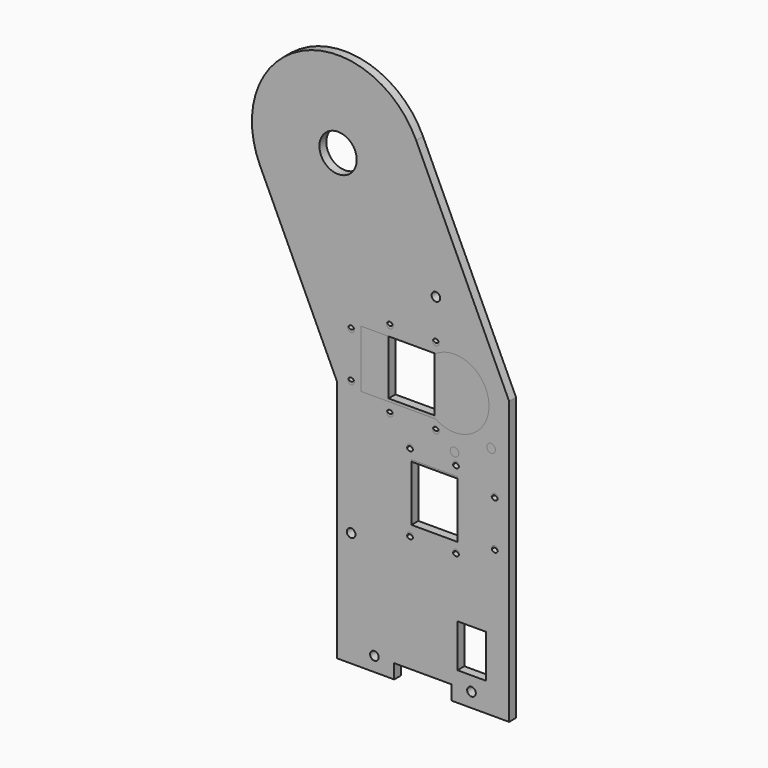
from build123d import *

# Parameters (mm, degrees)
F0_R     = 1.5
F0_R_2   = 1.1
F0_W     = 10
F0_H     = 15
F0_R_3   = 6.5
F0_W_2   = 16
F0_H_2   = 20
F2_DEPTH = 3
F1_R     = 1.5
F1_R_2   = 1.1
F1_W     = 10
F1_H     = 15
F1_W_2   = 16
F1_H_2   = 20
F1_R_3   = 6.5
F3_DEPTH = 3


with BuildPart() as f2:
    # F0 (on Front) → F2 (new body)
    with BuildSketch(Plane.XZ):
        with BuildLine():
            ThreePointArc((27.189234, 12.678548), (-12.678548, 27.189234), (-27.189234, -12.678548))
            Line((-27.189234, -12.678548), (-0.459801, -70))
            Line((-0.459801, -70), (-0.459801, -150))
            Line((-0.459801, -150), (-0.459801, -155))
            Line((-0.459801, -155), (19.540199, -155))
            Line((19.540199, -155), (19.540199, -150))
            Line((19.540199, -150), (39.540199, -150))
            Line((39.540199, -150), (39.540199, -155))
            Line((39.540199, -155), (59.540199, -155))
            Line((59.540199, -155), (59.540199, -150))
            Line((59.540199, -150), (59.540199, -56.69832))
            Line((59.540199, -56.69832), (27.189234, 12.678548))
        make_face()
        with Locations((12.640199, -150)):
            Circle(F0_R, mode=Mode.SUBTRACT)
        with Locations((4.540199, -115)):
            Circle(F0_R, mode=Mode.SUBTRACT)
        with Locations((5.812276, -109.009091)):
            Circle(F0_R, mode=Mode.SUBTRACT)
        with Locations((4.540199, -67.502)):
            Circle(F0_R_2, mode=Mode.SUBTRACT)
        with Locations((18.540199, -114.281169)):
            Circle(F0_R, mode=Mode.SUBTRACT)
        with Locations((25.040199, -109.781169)):
            Circle(F0_R_2, mode=Mode.SUBTRACT)
        with Locations((46.440199, -150)):
            Circle(F0_R, mode=Mode.SUBTRACT)
        with Locations((46.540199, -137.5)):
            Rectangle(F0_W, F0_H, mode=Mode.SUBTRACT)
        with Locations((41.040199, -109.781169)):
            Circle(F0_R_2, mode=Mode.SUBTRACT)
        with BuildLine():
            ThreePointArc((25.173448, -106.281169), (6.540199, -96.281169), (25.173448, -86.281169))
            Line((25.173448, -86.281169), (51.040199, -86.281169))
            Line((51.040199, -86.281169), (51.040199, -106.281169))
            Line((51.040199, -106.281169), (25.173448, -106.281169))
        make_face(mode=Mode.SUBTRACT)
        with Locations((25.040199, -82.781169)):
            Circle(F0_R_2, mode=Mode.SUBTRACT)
        with Locations((18.040199, -73.002)):
            Circle(F0_R_2, mode=Mode.SUBTRACT)
        with Locations((34.040199, -73.002)):
            Circle(F0_R_2, mode=Mode.SUBTRACT)
        with Locations((54.540199, -104.281169)):
            Circle(F0_R_2, mode=Mode.SUBTRACT)
        with Locations((54.540199, -88.281169)):
            Circle(F0_R_2, mode=Mode.SUBTRACT)
        with Locations((41.040199, -82.781169)):
            Circle(F0_R_2, mode=Mode.SUBTRACT)
        with Locations((4.540199, -51.502)):
            Circle(F0_R_2, mode=Mode.SUBTRACT)
        Circle(F0_R_3, mode=Mode.SUBTRACT)
        with Locations((25.540199, -59.502)):
            Rectangle(F0_W_2, F0_H_2, mode=Mode.SUBTRACT)
        with Locations((18.040199, -46.002)):
            Circle(F0_R_2, mode=Mode.SUBTRACT)
        with Locations((34.040199, -46.002)):
            Circle(F0_R_2, mode=Mode.SUBTRACT)
        with Locations((34.040199, -33)):
            Circle(F0_R, mode=Mode.SUBTRACT)
    extrude(amount=F2_DEPTH)


with BuildPart() as f3:
    # F1 (on Front) → F3 (new body)
    with BuildSketch(Plane.XZ):
        with BuildLine():
            ThreePointArc((27.189234, 12.678548), (-12.678548, 27.189234), (-27.189234, -12.678548))
            Line((-27.189234, -12.678548), (-0.459801, -70))
            Line((-0.459801, -70), (-0.459801, -150))
            Line((-0.459801, -150), (-0.459801, -155))
            Line((-0.459801, -155), (19.540199, -155))
            Line((19.540199, -155), (19.540199, -150))
            Line((19.540199, -150), (39.540199, -150))
            Line((39.540199, -150), (39.540199, -155))
            Line((39.540199, -155), (59.540199, -155))
            Line((59.540199, -155), (59.540199, -150))
            Line((59.540199, -150), (59.540199, -56.69832))
            Line((59.540199, -56.69832), (27.189234, 12.678548))
        make_face()
        with Locations((12.640199, -150)):
            Circle(F1_R, mode=Mode.SUBTRACT)
        with Locations((4.540199, -115)):
            Circle(F1_R, mode=Mode.SUBTRACT)
        with Locations((4.540199, -68.467614)):
            Circle(F1_R_2, mode=Mode.SUBTRACT)
        with Locations((25.040199, -109.17)):
            Circle(F1_R_2, mode=Mode.SUBTRACT)
        with Locations((46.440199, -150)):
            Circle(F1_R, mode=Mode.SUBTRACT)
        with Locations((46.540199, -137.5)):
            Rectangle(F1_W, F1_H, mode=Mode.SUBTRACT)
        with Locations((41.040199, -109.17)):
            Circle(F1_R_2, mode=Mode.SUBTRACT)
        with Locations((33.540199, -95.67)):
            Rectangle(F1_W_2, F1_H_2, mode=Mode.SUBTRACT)
        with Locations((25.040199, -82.17)):
            Circle(F1_R_2, mode=Mode.SUBTRACT)
        with Locations((18.040199, -73.967614)):
            Circle(F1_R_2, mode=Mode.SUBTRACT)
        with Locations((34.040199, -73.967614)):
            Circle(F1_R_2, mode=Mode.SUBTRACT)
        with Locations((54.540199, -103.67)):
            Circle(F1_R_2, mode=Mode.SUBTRACT)
        with Locations((54.540199, -87.67)):
            Circle(F1_R_2, mode=Mode.SUBTRACT)
        with Locations((41.040199, -82.17)):
            Circle(F1_R_2, mode=Mode.SUBTRACT)
        with Locations((40.540199, -78.467614)):
            Circle(F1_R, mode=Mode.SUBTRACT)
        with Locations((53.268121, -73.195536)):
            Circle(F1_R, mode=Mode.SUBTRACT)
        with Locations((4.540199, -52.467614)):
            Circle(F1_R_2, mode=Mode.SUBTRACT)
        Circle(F1_R_3, mode=Mode.SUBTRACT)
        with Locations((18.040199, -46.967614)):
            Circle(F1_R_2, mode=Mode.SUBTRACT)
        with BuildLine():
            ThreePointArc((33.906949, -50.467614), (46.214747, -49.894086), (52.540199, -60.467614))
            ThreePointArc((52.540199, -60.467614), (46.214747, -71.041142), (33.906949, -70.467614))
            Line((33.906949, -70.467614), (8.040199, -70.467614))
            Line((8.040199, -70.467614), (8.040199, -50.467614))
            Line((8.040199, -50.467614), (33.906949, -50.467614))
        make_face(mode=Mode.SUBTRACT)
        with Locations((34.040199, -46.967614)):
            Circle(F1_R_2, mode=Mode.SUBTRACT)
        with Locations((34.040199, -33)):
            Circle(F1_R, mode=Mode.SUBTRACT)
    extrude(amount=F3_DEPTH)


solid = Compound([f2.part, f3.part])
